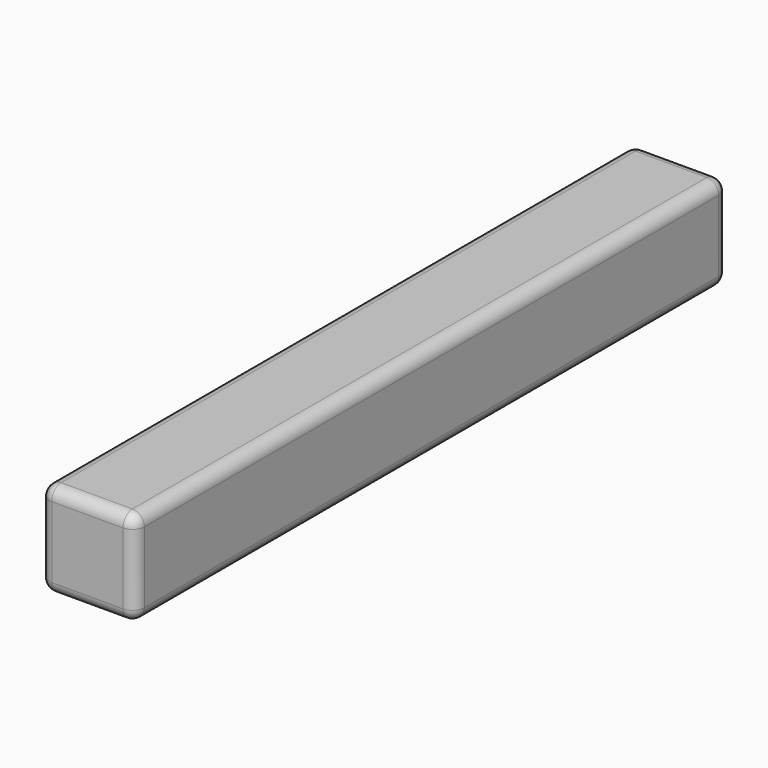
from build123d import *

# Parameters (mm, degrees)
F1_DEPTH = 15.875
F2_R     = 0.508


with BuildPart() as f1:
    # F0 (on Front) → F1 (new body, symmetric)
    with BuildSketch(Plane.XZ):
        with BuildLine():
            ThreePointArc((2.032, 1.524), (1.88321, 1.88321), (1.524, 2.032))
            Line((1.524, 2.032), (-1.524, 2.032))
            ThreePointArc((-1.524, 2.032), (-1.88321, 1.88321), (-2.032, 1.524))
            Line((-2.032, 1.524), (-2.032, -1.524))
            ThreePointArc((-2.032, -1.524), (-1.88321, -1.88321), (-1.524, -2.032))
            Line((-1.524, -2.032), (1.524, -2.032))
            ThreePointArc((1.524, -2.032), (1.88321, -1.88321), (2.032, -1.524))
            Line((2.032, -1.524), (2.032, 1.524))
        make_face()
    extrude(amount=F1_DEPTH, both=True)

    # F2
    f2_edges = [f1.edges().sort_by_distance(p)[0] for p in [
        (1.88321, -15.875, 1.88321),
        (0, -15.875, 2.032),
        (-1.88321, -15.875, 1.88321),
        (-2.032, -15.875, 0),
        (-1.88321, -15.875, -1.88321),
        (0, -15.875, -2.032),
        (1.88321, -15.875, -1.88321),
        (2.032, -15.875, 0),
        (1.88321, 15.875, 1.88321),
        (0, 15.875, 2.032),
        (-1.88321, 15.875, 1.88321),
        (-2.032, 15.875, 0),
        (-1.88321, 15.875, -1.88321),
        (0, 15.875, -2.032),
        (1.88321, 15.875, -1.88321),
        (2.032, 15.875, 0),
    ]]
    fillet(f2_edges, radius=F2_R)


solid = f1.part
